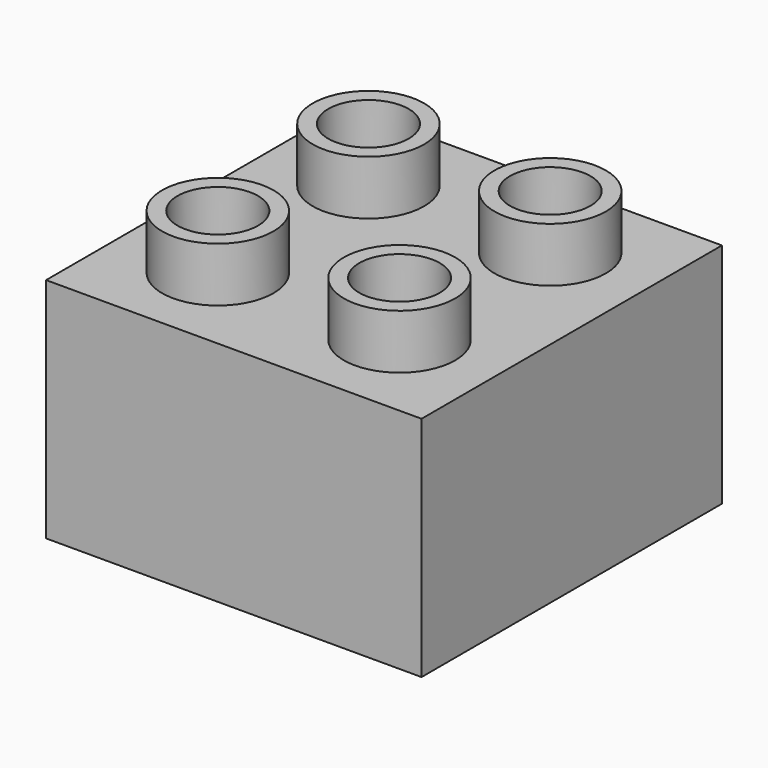
from build123d import *

# Parameters (mm, degrees)
F0_W     = 31.7
F0_H     = 31.7
F1_DEPTH = 19.2
F2_R     = 4.7
F2_R_2   = 3.4
F3_DEPTH = 4.6


with BuildPart() as f1:
    # F0 (on Top) → F1 (new body)
    with BuildSketch(Plane.XY):
        Rectangle(F0_W, F0_H)
    extrude(amount=F1_DEPTH)

    # F2 (on face) → F3 (join)
    with BuildSketch(Plane.XY.offset(19.2)):
        with Locations((-7.672173, 7.95)):
            Circle(F2_R)
        with Locations((-7.672173, 7.95)):
            Circle(F2_R_2, mode=Mode.SUBTRACT)
        with Locations((7.672173, 7.95)):
            Circle(F2_R)
        with Locations((7.672173, 7.95)):
            Circle(F2_R_2, mode=Mode.SUBTRACT)
        with Locations((-7.672173, -7.95)):
            Circle(F2_R)
        with Locations((-7.672173, -7.95)):
            Circle(F2_R_2, mode=Mode.SUBTRACT)
        with Locations((7.672173, -7.95)):
            Circle(F2_R)
        with Locations((7.672173, -7.95)):
            Circle(F2_R_2, mode=Mode.SUBTRACT)
    extrude(amount=F3_DEPTH)


solid = f1.part
